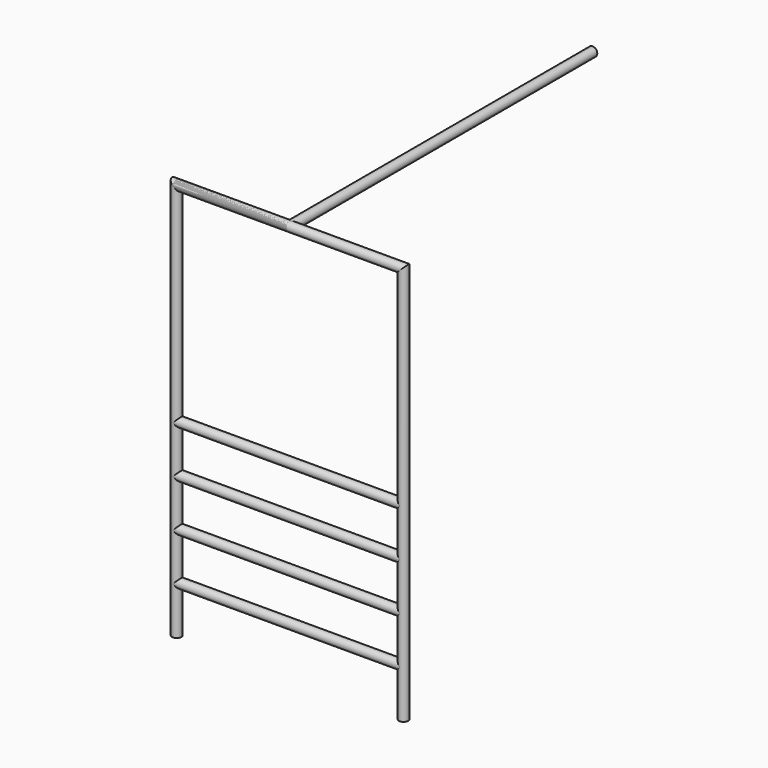
from build123d import *

# Parameters (mm, degrees)
F2_R      = 25
F3_DEPTH  = 2032
F0_R      = 25
F6_R      = 25
F9_R      = 25
F10_DEPTH = 1219.2


with BuildPart() as f3:
    # F2 (on Front) → F3 (new body)
    with BuildSketch(Plane.XZ):
        with Locations((609.5705032349, 2133.6636543274)):
            Circle(F2_R)
    extrude(amount=-F3_DEPTH)


with BuildPart() as f4:
    # F4: sweep along a path in F1
    with BuildLine(Plane.XZ) as f4_path:
        Line((0, 0), (0, 2133.6))
        Line((0, 2133.6), (609.6, 2133.6))
    # F0 (on Top) → F4 (sweep)
    with BuildSketch(Plane.XY):
        Circle(F0_R)
    sweep(path=f4_path.line, transition=Transition.RIGHT)


with BuildPart() as f7:
    # F7: sweep along a path in F1
    with BuildLine(Plane.XZ) as f7_path:
        Line((1219.2, 0), (1219.2, 2133.6))
        Line((1219.2, 2133.6), (0, 2133.6))
    # F6 (on line) → F7 (sweep)
    with BuildSketch(Plane(origin=(0, 0, 0), x_dir=(1, 0, 0), z_dir=(0, 0, -1))):
        with Locations((1219.2332744598, 0)):
            Circle(F6_R)
    sweep(path=f7_path.line, transition=Transition.RIGHT)


with BuildPart() as f10:
    # F9 (on line) → F10 (new body)
    with BuildSketch(Plane.YZ):
        with Locations((0, 1016.6057348251)):
            Circle(F9_R)
    extrude(amount=F10_DEPTH)


with BuildPart() as f10b:
    # F9 (on line) → F10, piece 2 (new body)
    with BuildSketch(Plane.YZ):
        with Locations((0, 761.9931697845)):
            Circle(F9_R)
    extrude(amount=F10_DEPTH)


with BuildPart() as f10c:
    # F9 (on line) → F10, piece 3 (new body)
    with BuildSketch(Plane.YZ):
        with Locations((0, 508.0889463425)):
            Circle(F9_R)
    extrude(amount=F10_DEPTH)


with BuildPart() as f10d:
    # F9 (on line) → F10, piece 4 (new body)
    with BuildSketch(Plane.YZ):
        with Locations((0, 254.1555166245)):
            Circle(F9_R)
    extrude(amount=F10_DEPTH)


solid = Compound([f3.part, f4.part, f7.part, f10.part, f10b.part, f10c.part, f10d.part])
